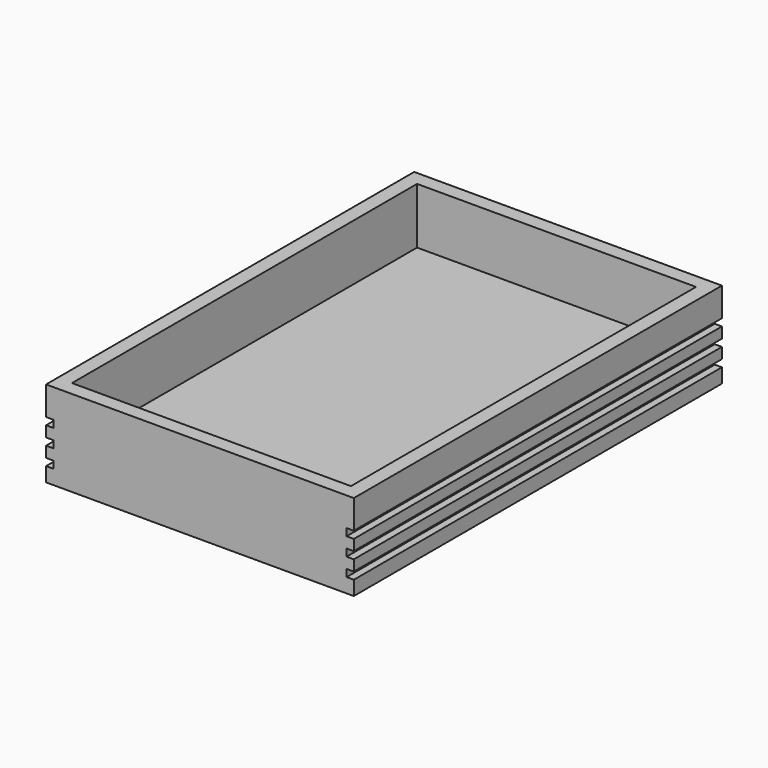
from build123d import *

# Parameters (mm, degrees)
F0_W     = 2140
F0_H     = 600
F1_DEPTH = 3200
F2_W     = 1940
F2_H     = 3000
F3_DEPTH = 390
F4_R     = 90
F5_DEPTH = 250
F6_W     = 50
F6_H     = 50
F7_DEPTH = 3200


with BuildPart() as f1:
    # F0 (on Front) → F1 (new body)
    with BuildSketch(Plane.XZ):
        with Locations((0, 300)):
            Rectangle(F0_W, F0_H)
    extrude(amount=F1_DEPTH)

    # F2 (on face) → F3 (cut)
    with BuildSketch(Plane.XY.offset(600)):
        with Locations((0, -1600)):
            Rectangle(F2_W, F2_H)
    extrude(amount=-F3_DEPTH, mode=Mode.SUBTRACT)

    # F4 (on face) → F5 (join)
    with BuildSketch(Plane(origin=(0, 0, 0), x_dir=(1, 0, 0), z_dir=(0, 0, -1))):
        with Locations((-200, 2400)):
            Circle(F4_R)
        with Locations((200, 2400)):
            Circle(F4_R)
    extrude(amount=F5_DEPTH)

    # F6 (on face) → F7 (cut)
    with BuildSketch(Plane.XZ.offset(3200)):
        with Locations((1045, 375)):
            Rectangle(F6_W, F6_H)
        with Locations((1045, 250)):
            Rectangle(F6_W, F6_H)
        with Locations((1045, 125)):
            Rectangle(F6_W, F6_H)
        with Locations((-1045, 125)):
            Rectangle(F6_W, F6_H)
        with Locations((-1045, 250)):
            Rectangle(F6_W, F6_H)
        with Locations((-1045, 375)):
            Rectangle(F6_W, F6_H)
    extrude(amount=-F7_DEPTH, mode=Mode.SUBTRACT)


solid = f1.part
